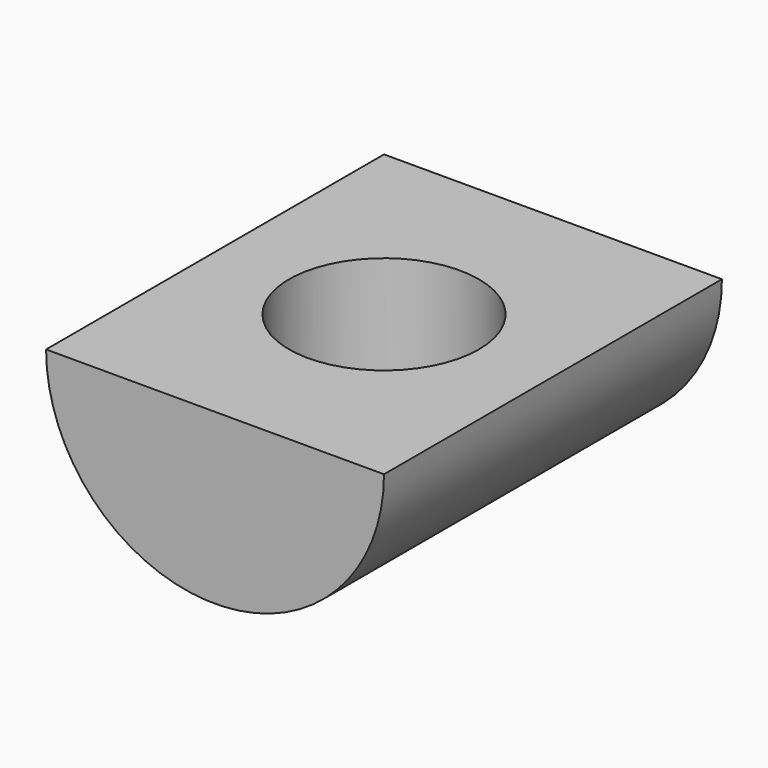
from build123d import *

# Parameters (mm, degrees)
F1_DEPTH = 15.875
F2_R     = 7.1374
F3_DEPTH = 25.4


with BuildPart() as f1:
    # F0 (on Front) → F1 (new body, symmetric)
    with BuildSketch(Plane.XZ):
        with BuildLine():
            Line((12.7, 0), (-12.7, 0))
            ThreePointArc((-12.7, 0), (0, -12.7), (12.7, 0))
        make_face()
    extrude(amount=F1_DEPTH, both=True)

    # F2 (on face) → F3 (cut)
    with BuildSketch(Plane.XY):
        Circle(F2_R)
    extrude(amount=-F3_DEPTH, mode=Mode.SUBTRACT)


solid = f1.part
